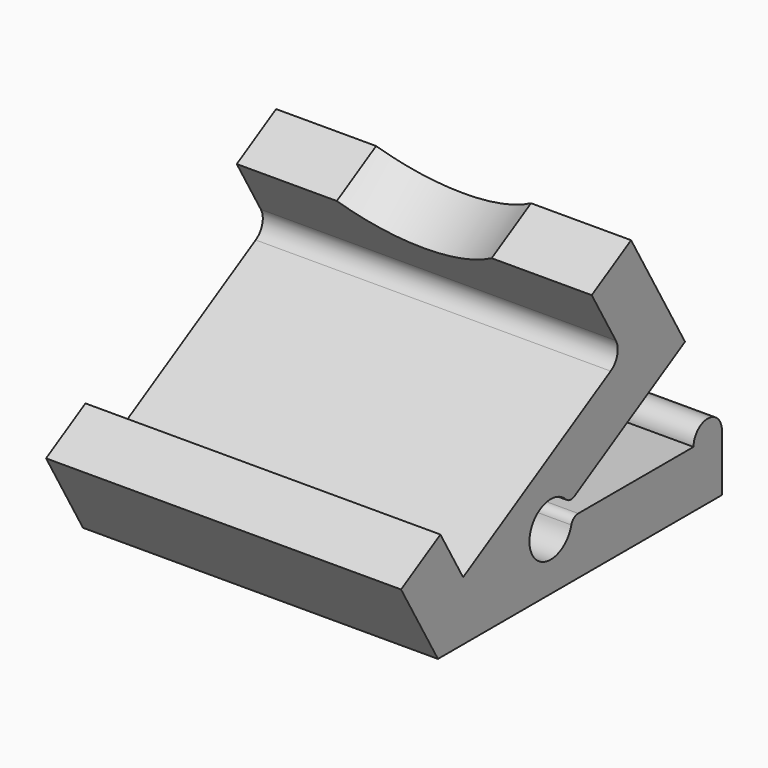
from build123d import *

# Parameters (mm, degrees)
F1_DEPTH = 10
F3_DEPTH = 3.2


with BuildPart() as f1:
    # F0 (on Right) → F1 (new body, symmetric)
    with BuildSketch(Plane.YZ):
        with BuildLine():
            Line((-2.6, 4.5033320997), (0, 0))
            Line((0, 0), (20, 0))
            Line((20, 0), (20, 3.2))
            ThreePointArc((20, 3.2), (19, 4.2), (18, 3.2))
            Line((18, 3.2), (9.8790542573, 3.2))
            ThreePointArc((9.8790542573, 3.2), (9.5728680395, 3.0952847075), (9.394931339, 2.825))
            ThreePointArc((9.394931339, 2.825), (6.4936738448, 2.8117714323), (9.0128508216, 4.2509439038))
            ThreePointArc((9.0128508216, 4.2509439038), (9.3020908782, 4.1058388311), (9.6196135673, 4.1682458366))
            Line((9.6196135673, 4.1682458366), (17.4008928334, 8.6607695155))
            Line((17.4008928334, 8.6607695155), (13.6008928334, 15.2425625842))
            Line((13.6008928334, 15.2425625842), (10.8296115413, 13.6425625842))
            Line((10.8296115413, 13.6425625842), (12.5296115413, 10.6980762114))
            ThreePointArc((12.5296115413, 10.6980762114), (12.6295119638, 9.9392571663), (12.1635861375, 9.3320508076))
            Line((12.1635861375, 9.3320508076), (1.7712812921, 3.3320508076))
            Line((1.7712812921, 3.3320508076), (0.1712812921, 6.1033320997))
            Line((0.1712812921, 6.1033320997), (-2.6, 4.5033320997))
        make_face()
    extrude(amount=F1_DEPTH, both=True)

    # F2 (on face) → F3 (cut, through all)
    with BuildSketch(Plane(origin=(0, 14.0296115413, 8.1), x_dir=(1, 0, 0), z_dir=(0, -0.8660254038, -0.5))):
        with BuildLine():
            Line((4.3634848459, 6.4), (-4.3634848459, 6.4))
            ThreePointArc((-4.3634848459, 6.4), (0, 5), (4.3634848459, 6.4))
        make_face()
    extrude(amount=-F3_DEPTH, mode=Mode.SUBTRACT)


solid = f1.part
